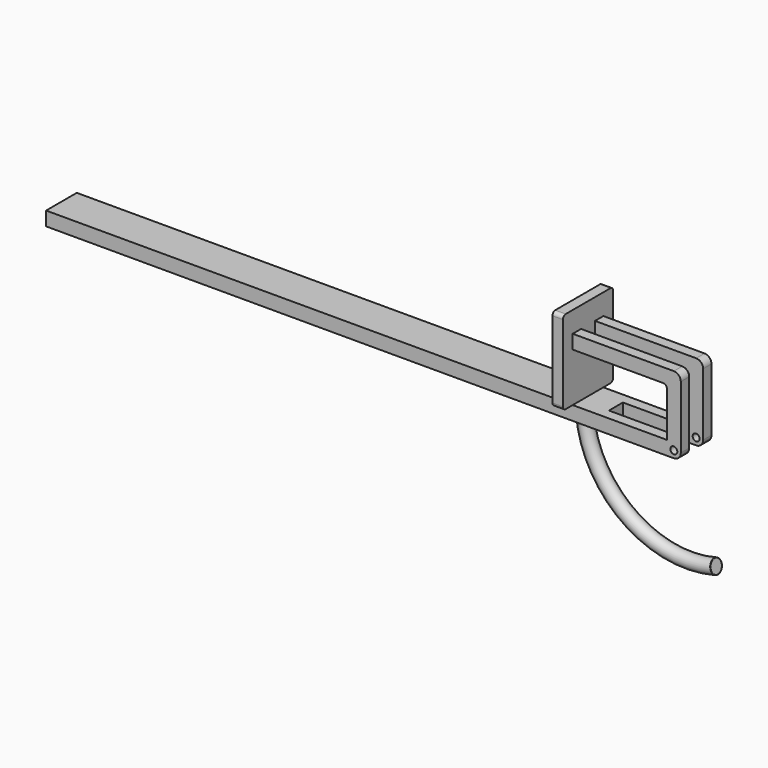
from build123d import *

# Parameters (mm, degrees)
F0_R           = 5
F1_DEPTH       = 27.5
F1_DEPTH_BACK  = 27.5
F4_R           = 5
F5_DEPTH       = 55
F7_DEPTH       = 12.5
F7_DEPTH_BACK  = 12.5
F9_W           = 15
F9_H           = 120
F10_DEPTH      = 45
F10_DEPTH_BACK = 45
F11_R          = 5
F12_R          = 5
F14_R          = 10
F16_R          = 5
F17_R          = 0.5


with BuildPart() as f1:
    # F0 (on Front) → F1 (new body, two sides)
    with BuildSketch(Plane.XZ) as f1_sk:
        with BuildLine():
            Line((-900, -10), (0, -10))
            ThreePointArc((0, -10), (10, 0), (0, 10))
            Line((0, 10), (-900, 10))
            Line((-900, 10), (-900, -10))
        make_face()
        Circle(F0_R, mode=Mode.SUBTRACT)
    extrude(amount=-F1_DEPTH)
    extrude(f1_sk.sketch, amount=F1_DEPTH_BACK)

    # F4 (on offset) → F5 (join)
    with BuildSketch(Plane.XZ.offset(27.5)):
        with BuildLine():
            Line((-10, 80), (-10, 0))
            ThreePointArc((-10, 0), (0, -10), (10, 0))
            Line((10, 0), (10, 90))
            ThreePointArc((10, 90), (7.0710678119, 97.0710678119), (0, 100))
            Line((0, 100), (-145, 100))
            Line((-145, 100), (-145, 80))
            Line((-145, 80), (-10, 80))
        make_face()
        Circle(F4_R, mode=Mode.SUBTRACT)
    extrude(amount=-F5_DEPTH)

    # F6 (on offset) → F7 (cut, two sides)
    with BuildSketch(Plane.XZ) as f7_sk:
        Polygon((-105, -42.0839144895), (30, -42.0839144895), (30, 107.9160855105), (-145, 107.9160855105), (-145, 27.9160855105), (-105, 28.3714774996), align=None)
    extrude(amount=-F7_DEPTH, mode=Mode.SUBTRACT)
    extrude(f7_sk.sketch, amount=F7_DEPTH_BACK, mode=Mode.SUBTRACT)

    # F9 (on offset) → F10 (join, two sides)
    with BuildSketch(Plane.XZ) as f10_sk:
        with Locations((-152.5, 70)):
            Rectangle(F9_W, F9_H)
    extrude(amount=F10_DEPTH)
    extrude(f10_sk.sketch, amount=-F10_DEPTH_BACK)

    # F11
    f11_edges = [f1.edges().sort_by_distance(p)[0] for p in [
        (-152.5, -45, 130),
        (-152.5, 45, 130),
        (-152.5, -45, 10),
        (-152.5, 45, 10),
    ]]
    fillet(f11_edges, radius=F11_R)

    # F12
    f12_edges = [f1.edges().sort_by_distance(p)[0] for p in [
        (-10, -20, 80),
        (-10, 20, 80),
    ]]
    fillet(f12_edges, radius=F12_R)

    # F15: sweep along a path in F8
    with BuildLine(Plane.XZ) as f15_path:
        ThreePointArc((-150, 0), (-91.3142143513, -119.0030010437), (38.8228567654, -144.8888739434))
    # F14 (on offset) → F15 (sweep)
    with BuildSketch(Plane(origin=(0, 0, 0), x_dir=(1, 0, 0), z_dir=(0, 0, -1))):
        with Locations((-150, 0)):
            Circle(F14_R)
    sweep(path=f15_path.line)

    # F16
    f16_edges = [f1.edges().sort_by_distance(p)[0] for p in [
        (-105, 0, -10),
    ]]
    fillet(f16_edges, radius=F16_R)

    # F17
    f17_edges = [f1.edges().sort_by_distance(p)[0] for p in [
        (41.411047, 0, -154.548132),
    ]]
    fillet(f17_edges, radius=F17_R)


solid = f1.part
